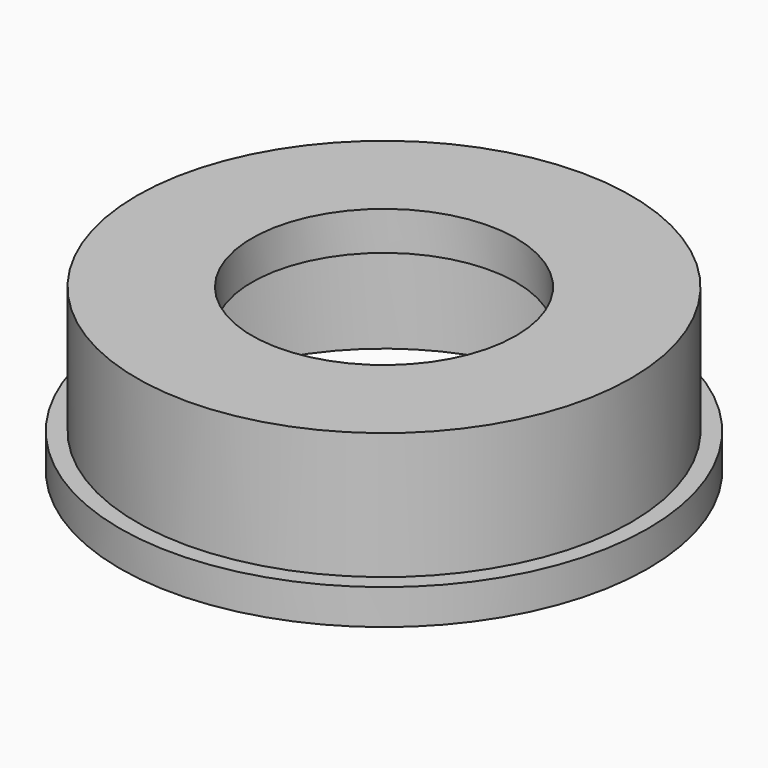
from build123d import *

# Parameters (mm, degrees)
F0_R     = 30
F1_DEPTH = 4
F2_R     = 28.075
F3_DEPTH = 14.4
F4_R     = 23.5
F5_DEPTH = 14
F6_R     = 15
F7_DEPTH = 18.401


with BuildPart() as f1:
    # F0 (on Top) → F1 (new body)
    with BuildSketch(Plane.XY):
        Circle(F0_R)
    extrude(amount=F1_DEPTH)

    # F2 (on face) → F3 (join)
    with BuildSketch(Plane.XY.offset(4)):
        Circle(F2_R)
    extrude(amount=F3_DEPTH)

    # F4 (on face) → F5 (cut)
    with BuildSketch(Plane(origin=(0, 0, 0), x_dir=(1, 0, 0), z_dir=(0, 0, -1))):
        Circle(F4_R)
    extrude(amount=-F5_DEPTH, mode=Mode.SUBTRACT)

    # F6 (on face) → F7 (cut, through all)
    with BuildSketch(Plane.XY.offset(18.4)):
        Circle(F6_R)
    extrude(amount=-F7_DEPTH, mode=Mode.SUBTRACT)


solid = f1.part
